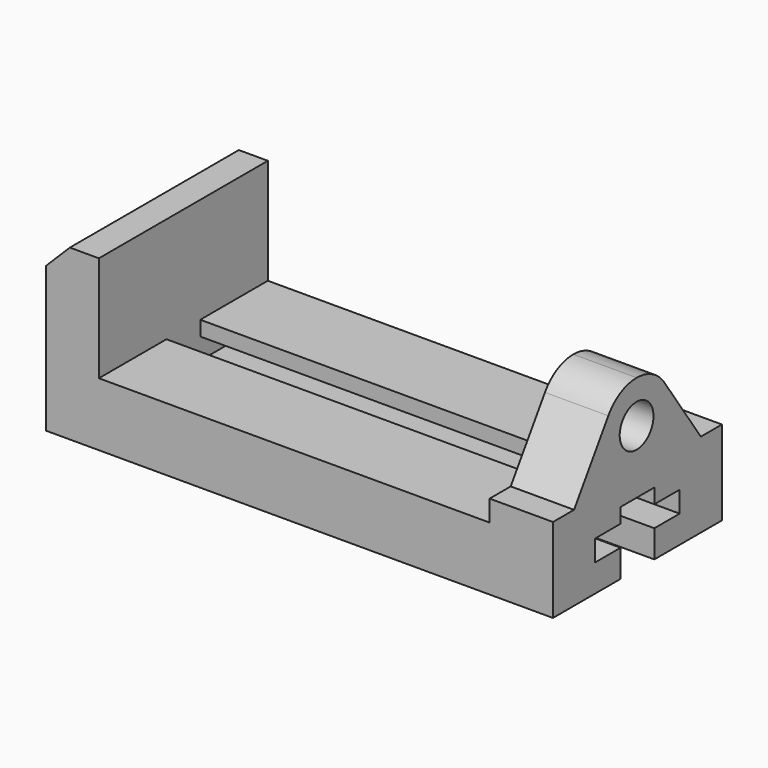
from build123d import *

# Parameters (mm, degrees)
F1_DEPTH = 127
F2_SIZE  = 14.2875
F3_R     = 12.7
F4_DEPTH = 273.05


with BuildPart() as f1:
    # F0 (on Front) → F1 (new body)
    with BuildSketch(Plane.XZ):
        Polygon((0, 101.6), (0, 0), (304.8, 0), (304.8, 101.6), (266.7, 101.6), (266.7, 38.1), (31.75, 38.1), (31.75, 101.6), align=None)
    extrude(amount=F1_DEPTH)

    # F2
    f2_edges = [f1.edges().sort_by_distance(p)[0] for p in [
        (0, -63.5, 101.6),
    ]]
    chamfer(f2_edges, length=F2_SIZE)

    # F3 (on face) → F4 (cut)
    with BuildSketch(Plane.YZ.offset(304.8)):
        with BuildLine():
            ThreePointArc((-85.389287, 90.112113), (-76.216845, 98.544213), (-64.138096, 101.6))
            Line((-64.138096, 101.6), (-127, 101.6))
            Line((-127, 101.6), (-127, 50.8))
            Line((-127, 50.8), (-111.125, 50.8))
            Line((-111.125, 50.8), (-85.389287, 90.112113))
        make_face()
        with BuildLine():
            Line((-15.875, 50.8), (0, 50.8))
            Line((0, 50.8), (0, 101.6))
            Line((0, 101.6), (-64.138096, 101.6))
            ThreePointArc((-64.138096, 101.6), (-51.747613, 98.372865), (-42.505615, 89.51149))
            Line((-42.505615, 89.51149), (-15.875, 50.8))
        make_face()
        with Locations((-64.138096, 76.2)):
            Circle(F3_R)
        Polygon((-76.2, 16.51), (-76.2, 0), (-50.8, 0), (-50.8, 16.51), (-31.75, 16.51), (-31.75, 29.21), (-50.8, 29.21), (-50.8, 38.1), (-76.2, 38.1), (-76.2, 29.21), (-95.25, 29.21), (-95.25, 16.51), align=None)
    extrude(amount=-F4_DEPTH, mode=Mode.SUBTRACT)


solid = f1.part
